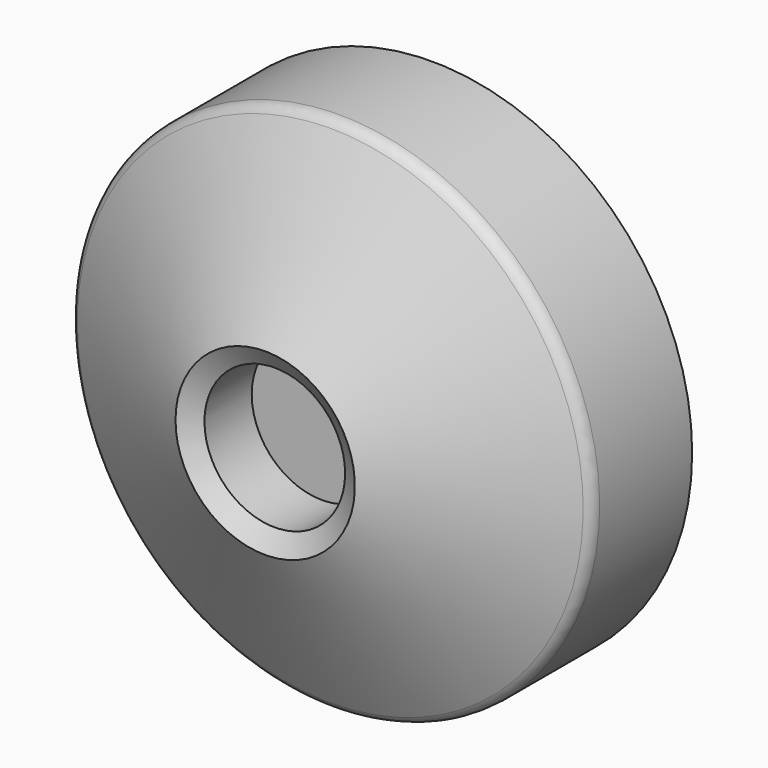
from build123d import *

# Parameters (mm, degrees)
F2_R    = 6
F3_SIZE = 10
F4_T    = -2.5


with BuildPart() as f1:
    # F0 (on Top) → F1 (revolve)
    with BuildSketch(Plane.XY):
        Polygon((-120.2378347516, 63.5438784957), (-120.2378347516, 6.4126844518), (-32.5006470084, -37.3101644218), (-32.5006470084, 0), (0, 0), (0, 63.5438784957), align=None)
    revolve(axis=Axis((0, 18.9465675503, 0), (0, -1, 0)))

    # F2
    f2_edges = [f1.edges().sort_by_distance(p)[0] for p in [
        (120.237835, 6.412684, 0),
    ]]
    fillet(f2_edges, radius=F2_R)

    # F3
    f3_edges = [f1.edges().sort_by_distance(p)[0] for p in [
        (32.500647, -37.310164, 0),
    ]]
    chamfer(f3_edges, length=F3_SIZE)

    # F4
    f4_openings = [f1.faces().sort_by_distance(p)[0] for p in [
        (0, 63.543878, 0),
    ]]
    offset(amount=F4_T, openings=f4_openings, kind=Kind.INTERSECTION)


solid = f1.part
